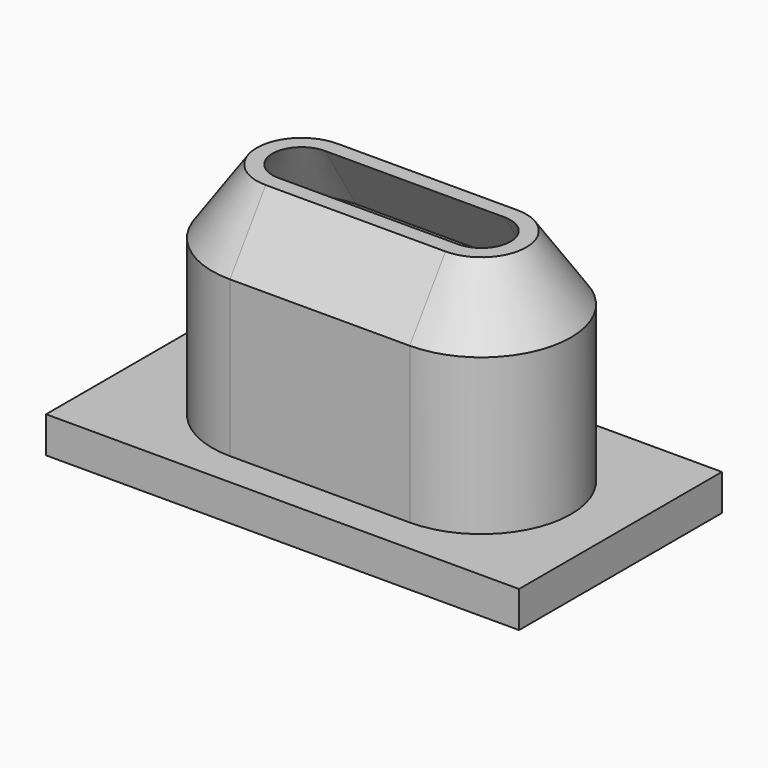
from build123d import *

# Parameters (mm, degrees)
F3_W     = 104.485452
F3_H     = 56.012825
F4_DEPTH = 8


with BuildPart() as f2:
    # F2: sweep along a path in F0
    with BuildLine(Plane.XY) as f2_path:
        Line((-19.858262, 0), (0, 0))
        Line((0, 0), (19.858262, 0))
        ThreePointArc((19.858262, 0), (34.858262, 15), (19.858262, 30))
        Line((19.858262, 30), (0, 30))
        Line((0, 30), (-19.858262, 30))
        ThreePointArc((-19.858262, 30), (-34.858262, 15), (-19.858262, 0))
    # F1 (on Right) → F2 (sweep)
    with BuildSketch(Plane.YZ):
        Polygon((0, 0), (0, 42.866446), (8.554096, 56.695212), (5.096905, 56.695212), (-4.780783, 42.372562), (-4.780783, 0), align=None)
    sweep(path=f2_path.line)


with BuildPart() as f4:
    # F3 (on Top) → F4 (new body)
    with BuildSketch(Plane.XY):
        with Locations((-2.154335, 15.618965)):
            Rectangle(F3_W, F3_H)
    extrude(amount=F4_DEPTH)


solid = Compound([f2.part, f4.part])
